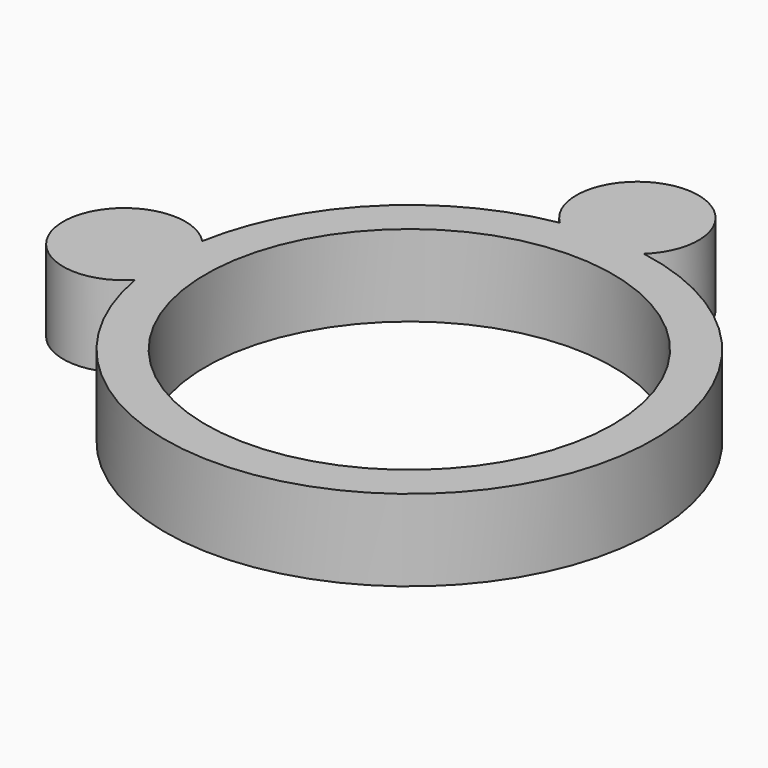
from build123d import *

# Parameters (mm, degrees)
CYLINDER003_R     = 1.5
CYLINDER003_DEPTH = 2
CYLINDER001_R     = 5
CYLINDER001_DEPTH = 3
CYLINDER_R        = 6
CYLINDER_DEPTH    = 2
CYLINDER002_R     = 1.5
CYLINDER002_DEPTH = 2


with BuildPart() as cylinder003:
    # Cylinder003 → Cylinder003 (new body)
    with BuildSketch(Plane(origin=(0, 7, 0), x_dir=(1, 0, 0), z_dir=(0, 0, 1))):
        Circle(CYLINDER003_R)
    extrude(amount=CYLINDER003_DEPTH)


with BuildPart() as cylinder001:
    # Cylinder001 → Cylinder001 (new body)
    with BuildSketch(Plane.XY):
        Circle(CYLINDER001_R)
    extrude(amount=CYLINDER001_DEPTH)


with BuildPart() as cut:
    # Cylinder → Cylinder (new body)
    with BuildSketch(Plane.XY):
        Circle(CYLINDER_R)
    extrude(amount=CYLINDER_DEPTH)

    # Cut: cut Cylinder001
    add(cylinder001.part, mode=Mode.SUBTRACT)


with BuildPart() as fusion:
    # Cylinder002 → Cylinder002 (new body)
    with BuildSketch(Plane(origin=(-7, 0, 0), x_dir=(1, 0, 0), z_dir=(0, 0, 1))):
        Circle(CYLINDER002_R)
    extrude(amount=CYLINDER002_DEPTH)

    # Fusion: union Cylinder003, Cut
    add(cylinder003.part)
    add(cut.part)


solid = fusion.part
